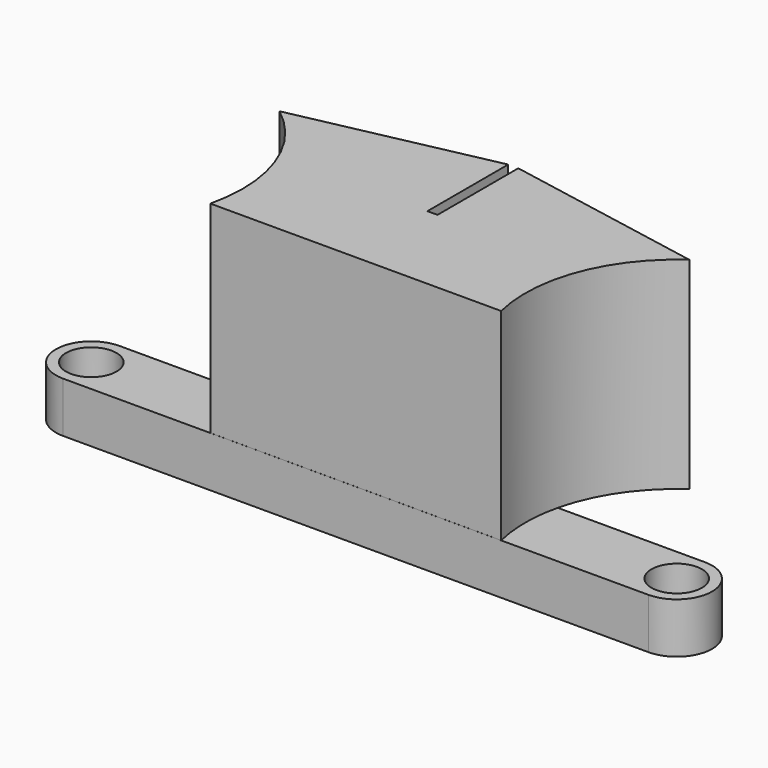
from build123d import *

# Parameters (mm, degrees)
SKETCH_R     = 2.5
PAD_DEPTH    = 5
PAD001_DEPTH = 20


with BuildPart() as part:
    # Sketch → Pad (new body)
    with BuildSketch(Plane.XY):
        with BuildLine():
            ThreePointArc((0, 3.5), (-3.5, 0), (0, -3.5))
            Line((57.98, -3.5), (0, -3.5))
            ThreePointArc((57.98, -3.5), (61.48, 0), (57.98, 3.5))
            Line((0, 3.5), (57.98, 3.5))
        make_face()
        Circle(SKETCH_R, mode=Mode.SUBTRACT)
        with Locations((57.98, 0)):
            Circle(SKETCH_R, mode=Mode.SUBTRACT)
    extrude(amount=PAD_DEPTH)

    # Sketch001 (on Face8 of Pad) → Pad001 (join)
    with BuildSketch(Plane.XY.offset(5)):
        with BuildLine():
            Line((29.489935, 16), (29.489935, 6))
            Line((28.489935, 6), (29.489935, 6))
            Line((28.489935, 6), (28.489935, 15.99995))
            Line((9.108103, 11.918157), (28.489935, 15.99995))
            ThreePointArc((14.587373, -3.494502), (14.133535, 5.024439), (9.108103, 11.918157))
            Line((14.587373, -3.494502), (43.392665, -3.494502))
            ThreePointArc((49.388809, 12.296038), (43.956926, 5.32496), (43.392665, -3.494502))
            Line((29.489935, 16), (49.388809, 12.296038))
        make_face()
    extrude(amount=PAD001_DEPTH)


solid = part.part
